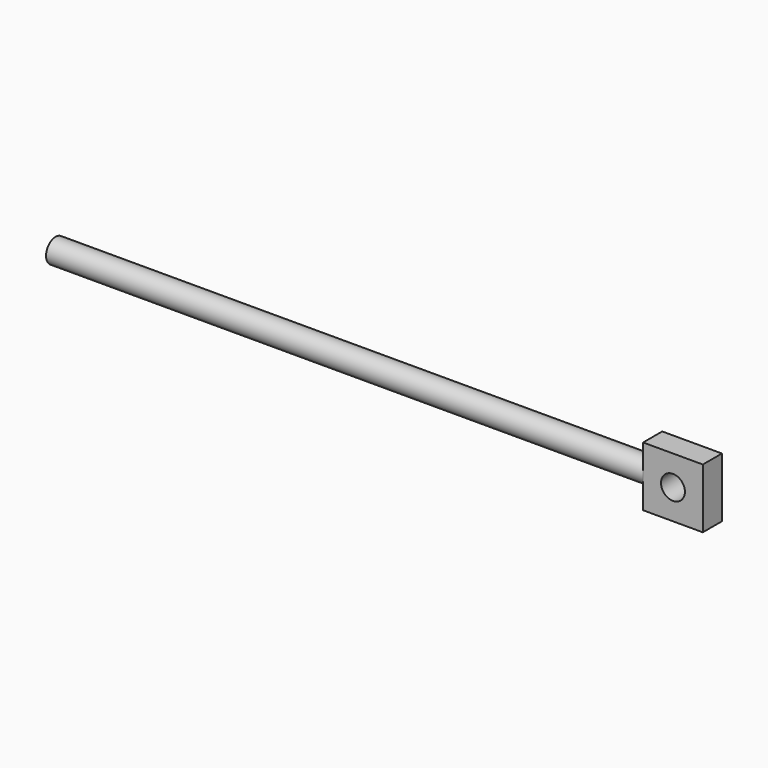
from build123d import *

# Parameters (mm, degrees)
F0_R     = 4
F1_DEPTH = 200
F3_DEPTH = 20
F4_R     = 4
F5_DEPTH = 25


with BuildPart() as f1:
    # F0 (on Right) → F1 (new body)
    with BuildSketch(Plane.YZ):
        with Locations((-41.776799, 63.168682)):
            Circle(F0_R)
    extrude(amount=F1_DEPTH)

    # F2 (on face) → F3 (join)
    with BuildSketch(Plane.YZ.offset(200)):
        with BuildLine():
            Line((-37.776799, 73.168682), (-45.776799, 73.168682))
            Line((-45.776799, 73.168682), (-45.776799, 63.168682))
            ThreePointArc((-45.776799, 63.168682), (-41.776799, 67.168682), (-37.776799, 63.168682))
            Line((-37.776799, 63.168682), (-37.776799, 73.168682))
        make_face()
        with BuildLine():
            ThreePointArc((-37.776799, 63.168682), (-41.776799, 67.168682), (-45.776799, 63.168682))
            ThreePointArc((-45.776799, 63.168682), (-41.776799, 59.168682), (-37.776799, 63.168682))
        make_face()
        with BuildLine():
            ThreePointArc((-37.776799, 63.168682), (-41.776799, 59.168682), (-45.776799, 63.168682))
            Line((-45.776799, 63.168682), (-45.776799, 53.168682))
            Line((-45.776799, 53.168682), (-37.776799, 53.168682))
            Line((-37.776799, 53.168682), (-37.776799, 63.168682))
        make_face()
    extrude(amount=F3_DEPTH)

    # F4 (on face) → F5 (cut)
    with BuildSketch(Plane(origin=(0, -37.776799, 0), x_dir=(-1, 0, 0), z_dir=(0, 1, 0))):
        with Locations((-210, 63.168682)):
            Circle(F4_R)
    extrude(amount=-F5_DEPTH, mode=Mode.SUBTRACT)


solid = f1.part
